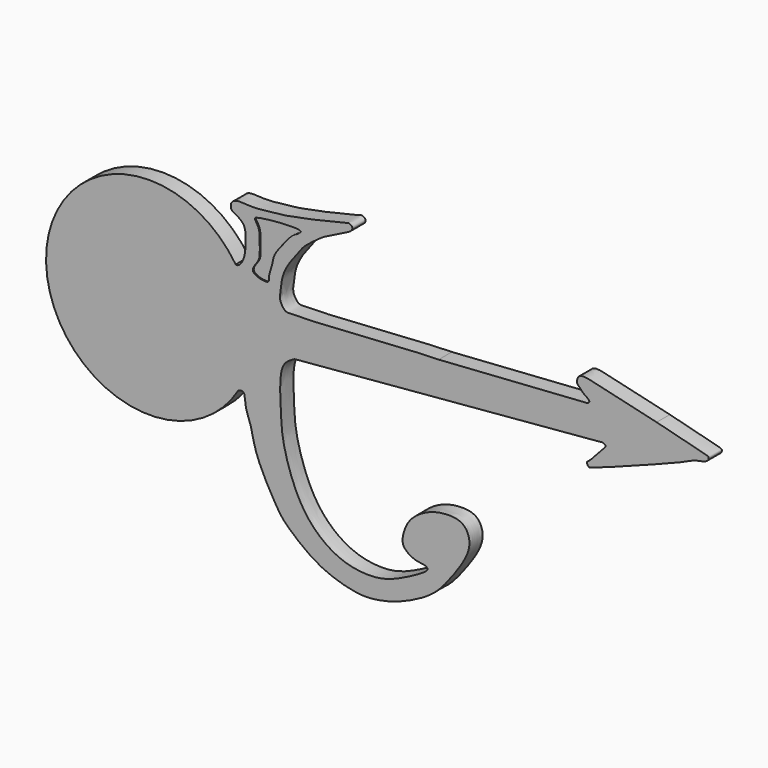
from build123d import *

# Parameters (mm, degrees)
F1_DEPTH = 19.05
F2_DEPTH = 17.78


with BuildPart() as f1:
    # F0 (on Front) → F1 (new body)
    with BuildSketch(Plane.XZ):
        with BuildLine():
            add(Edge.make_bspline(
                [(-130.1138715536, 85.533031255), (-129.2887892248, 85.3608493241), (-127.1677029561, 84.9182113998), (-122.2152918066, 90.1774152148), (-119.1829720352, 99.6949387402), (-118.3891973252, 112.2802455132), (-118.6474362732, 124.5253916836), (-122.4091250648, 131.6700414546), (-129.978840605, 136.0801830312), (-135.6032518203, 138.5731538189), (-136.4258696231, 146.1544575476), (-130.0866375266, 151.3412522962), (-117.9393615236, 150.0450910916), (-104.5224403916, 149.9738489288), (-89.8096566769, 151.9215379572), (-70.8282493221, 153.2782066419), (-27.3015347153, 162.9839680946), (-3.3588766352, 168.5965261926), (-0.2116083294, 170.1651240955), (4.3265653565, 167.7261518223), (4.1737774403, 163.0335588831), (-5.1236763253, 157.5740067579), (-28.5510929849, 147.2703335873), (-35.8581144382, 141.2965225989), (-51.1163145638, 130.6969160803), (-57.871320392, 121.1248748848), (-68.7094415261, 107.7512069579), (-76.8858353688, 91.5046705648), (-77.9254866824, 78.8508161239), (-80.4952346226, 66.0713016523), (-74.0316624393, 57.2611729641), (-67.9805533182, 54.1472939738), (76.9090319393, 64.7545473028), (97.077008369, 65.0216549941), (103.35795691, 65.1048408144)],
                knots=[0, 0, 0, 0, 0.0136416771, 0.0350694386, 0.0620769956, 0.0926400103, 0.1221698352, 0.1456682483, 0.1704661977, 0.1909034329, 0.2120434198, 0.2343914463, 0.263613529, 0.2950980795, 0.3269814887, 0.3641989146, 0.4224079461, 0.4634914372, 0.4779532224, 0.4954558392, 0.511036618, 0.5382546557, 0.5812164511, 0.6087388545, 0.6441568117, 0.6737460625, 0.7088181682, 0.7449141686, 0.7753218942, 0.8055088948, 0.8310510684, 0.8526623776, 0.9541143839, 1, 1, 1, 1], degree=3))
            ThreePointArc((-130.1138715536, 85.533031255), (-348.274393402, 16.8875883331), (-127.0035833662, -40.9521795884))
            add(Edge.make_bspline(
                [(-127.0035833662, -40.9521795884), (-124.7889924499, -40.3521034661), (-119.1787768513, -38.8319326767), (-119.7744511111, -55.8141820775), (-111.8557216117, -71.1785767002), (-108.7971505641, -97.7744521995), (-87.08012502, -138.3328806709), (-76.5167799748, -154.5891976673), (-66.2768529704, -164.3121298532), (-51.540269322, -176.6223126135), (-32.9336617927, -189.0000233946), (-11.6251235733, -197.4753549727), (15.3695750329, -203.7962555377), (38.5247841496, -200.7218157176), (61.1917463006, -194.4434023789), (88.5070374002, -180.727667126), (105.0643557086, -167.6764886572), (121.6260328361, -145.970453329), (133.8903271074, -127.9928010116), (141.4156552061, -108.8375396279), (132.8338003583, -88.7642559434), (108.4898703953, -87.9975005115), (88.9547341231, -93.0626223511), (68.743183191, -106.6640938429), (61.5639097899, -125.9594344396), (61.4984159533, -138.9801118384), (76.6980736063, -147.9840461693), (87.4799642917, -147.5450179052), (92.1508898208, -151.6008048976), (84.1141729024, -157.8906792073), (63.7353671129, -168.7509456071), (37.4604391487, -180.4658971441), (4.1981122443, -179.176927337), (-22.9453386225, -168.1747790047), (-47.4518729918, -146.6543241751), (-64.9359582195, -115.2729751313), (-77.4109549893, -72.9814546745), (-78.0494663763, -42.9390017603), (-80.8050369043, 2.1255323674), (-67.5523606405, 8.9982045754), (-62.2881216094, 11.7281731165)],
                knots=[0, 0, 0, 0, 0.0134710627, 0.0341261971, 0.0577635726, 0.0870381219, 0.1253277009, 0.1501062224, 0.1706351267, 0.1952329869, 0.2218512264, 0.2489659084, 0.2784326976, 0.3053868677, 0.332852636, 0.3637059632, 0.3898110537, 0.4189262978, 0.445544538, 0.4704413301, 0.4943402087, 0.5205967849, 0.5463045238, 0.5735992275, 0.5986775189, 0.617765561, 0.6402987395, 0.6589134417, 0.6698866038, 0.6854050038, 0.7128379163, 0.7433221437, 0.7752899012, 0.8055722, 0.8371191266, 0.8710861427, 0.9078798919, 0.9401108402, 0.9762107784, 1, 1, 1, 1], degree=3))
            Line((-62.2881216094, 11.7281731165), (280.9168382821, 41.5014732555))
            add(Edge.make_bspline(
                [(354.1848536298, 83.2205161709), (379.1764793503, 77.0906399114), (409.910364917, 69.5523181709), (414.5846045649, 67.3195711752), (413.054040117, 61.2316678476), (396.9073547283, 59.2710113646), (391.1519791218, 54.1947772163), (281.4715123303, 13.0183395587), (275.9342339943, 11.7828905061), (272.8227333263, 17.0484821587), (278.341895266, 19.1948959222), (292.6970857475, 36.9769978758), (296.6103419155, 39.8663813583), (292.7995596475, 42.9223867905), (288.5027178272, 42.125586477), (283.6792915882, 41.7287486323), (280.9168382821, 41.5014732555)],
                knots=[0, 0, 0, 0, 0.155723122, 0.1915032126, 0.2333182148, 0.3078869405, 0.378682171, 0.5958178976, 0.6420540529, 0.6819025443, 0.7267194671, 0.8250734248, 0.8641528567, 0.9013896927, 0.9435243008, 1, 1, 1, 1], degree=3))
            add(Edge.make_bspline(
                [(274.4208515185, 76.6880985395), (275.4131616941, 77.2245772912), (277.289117428, 78.2387867745), (276.1486616258, 81.2711931277), (270.049657067, 84.2924491608), (265.7079998747, 89.9068305236), (261.6183345247, 92.6135979757), (263.5975696047, 102.0054433219), (272.0381746162, 102.3335076211), (279.8690581236, 100.6417965634), (324.4944098525, 90.1995655376), (343.6569339766, 85.5826686793), (351.1556388048, 83.900182015), (354.1848536298, 83.2205161709)],
                knots=[0, 0, 0, 0, 0.0510618884, 0.0965321577, 0.1745119725, 0.2549634898, 0.3178666364, 0.4002127914, 0.4780937553, 0.5654536484, 0.7678309311, 0.9062118057, 1, 1, 1, 1], degree=3))
            Line((274.4208515185, 76.6880985395), (103.35795691, 65.1048408144))
        make_face()
        with BuildLine():
            add(Edge.make_bspline(
                [(-109.8934060262, 84.6388796731), (-107.5847307861, 80.660129624), (-90.1395638123, 77.1636055904), (-92.9147951119, 86.0245859256), (-87.7004493172, 98.1737267081), (-86.8683330202, 109.1117372662), (-78.4166385089, 120.1959923948), (-70.2549145058, 130.5189562401), (-64.2585176563, 137.1236606883), (-42.2251793917, 148.2400826165), (-109.2781733308, 142.5120649463), (-108.0130951816, 137.9617332114), (-102.5066757344, 130.595115487), (-102.6435179321, 119.0064023717), (-102.0464458909, 103.7908373934), (-103.9268802099, 96.3700346133), (-111.8362010532, 87.9870750689), (-109.8934060262, 84.6388796731)],
                knots=[0, 0, 0, 0, 0.0796899159, 0.1246022407, 0.19392651, 0.2574421499, 0.3278197029, 0.3963677595, 0.4594707281, 0.5168371801, 0.6542225855, 0.6820350308, 0.7373972144, 0.8039562203, 0.8773146005, 0.9329393889, 1, 1, 1, 1], degree=3))
        make_face(mode=Mode.SUBTRACT)
    extrude(amount=F1_DEPTH)

    # F0 (on Front) → F2 (join)
    with BuildSketch(Plane.XZ):
        with BuildLine():
            add(Edge.make_bspline(
                [(-109.8934060262, 84.6388796731), (-107.5847307861, 80.660129624), (-90.1395638123, 77.1636055904), (-92.9147951119, 86.0245859256), (-87.7004493172, 98.1737267081), (-86.8683330202, 109.1117372662), (-78.4166385089, 120.1959923948), (-70.2549145058, 130.5189562401), (-64.2585176563, 137.1236606883), (-42.2251793917, 148.2400826165), (-109.2781733308, 142.5120649463), (-108.0130951816, 137.9617332114), (-102.5066757344, 130.595115487), (-102.6435179321, 119.0064023717), (-102.0464458909, 103.7908373934), (-103.9268802099, 96.3700346133), (-111.8362010532, 87.9870750689), (-109.8934060262, 84.6388796731)],
                knots=[0, 0, 0, 0, 0.0796899159, 0.1246022407, 0.19392651, 0.2574421499, 0.3278197029, 0.3963677595, 0.4594707281, 0.5168371801, 0.6542225855, 0.6820350308, 0.7373972144, 0.8039562203, 0.8773146005, 0.9329393889, 1, 1, 1, 1], degree=3))
        make_face()
    extrude(amount=F2_DEPTH)


solid = f1.part
